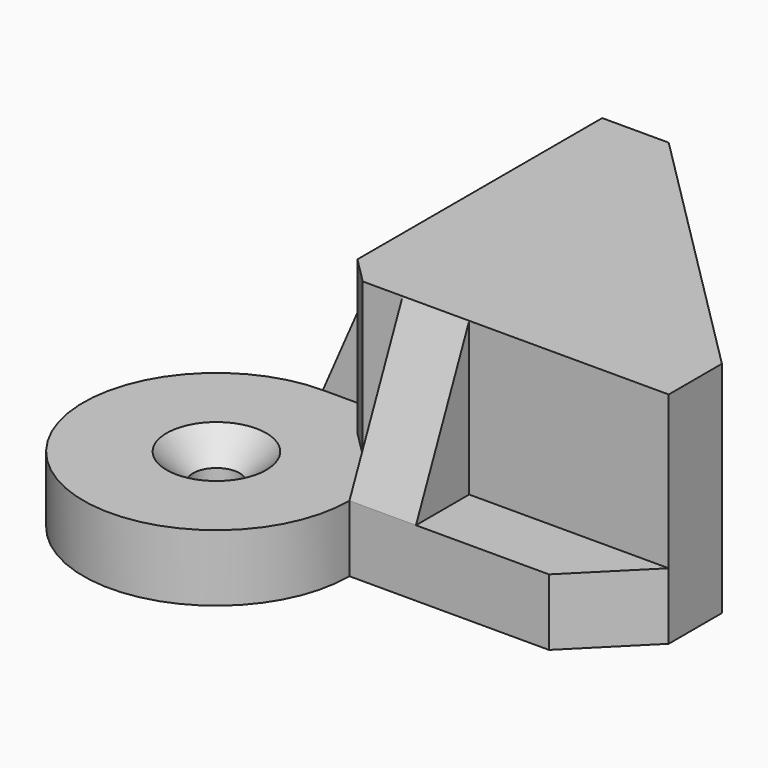
from build123d import *

# Parameters (mm, degrees)
EXTRUDE003_DEPTH                          = 5
EXTRUDE003_ONTO_SKETCH003_ROLL_ANGLE      = 90
EXTRUDE003_ONTO_SKETCH003_PLACEMENT_ANGLE = -90
EXTRUDE001_DEPTH                          = 9
EXTRUDE002_DEPTH                          = 2.5
SKETCH_R                                  = 1.75
EXTRUDE_DEPTH                             = 5
CHAMFER_SIZE                              = 2


with BuildPart() as extrude003:
    # Sketch003 as drawn → Extrude003 (new)
    with BuildSketch(Plane.XY):
        Polygon((-5, 16.5), (-5, 5), (0, 5), align=None)
    extrude(amount=-EXTRUDE003_DEPTH)


with BuildPart() as extrude003_1:
    # Extrude003 onto Sketch003 roll: moved
    add(extrude003.part.rotate(Axis((0, 0, 0), (1, 0, 0)), EXTRUDE003_ONTO_SKETCH003_ROLL_ANGLE))


with BuildPart() as extrude003_2:
    # Extrude003 onto Sketch003 placement: moved
    add(extrude003_1.part.moved(Location((5, 0, 0))).rotate(Axis((5, 0, 0), (0, 0, 1)), EXTRUDE003_ONTO_SKETCH003_PLACEMENT_ANGLE))


with BuildPart() as extrude003_3:
    # Extrude003 placement: moved
    add(extrude003_2.part.moved(Location((5, 0, 0))))


with BuildPart() as extrude003_mirrored:
    # mirror: instance of Extrude003
    add(extrude003_3.part.mirror(Plane(origin=(5, 5, 2), x_dir=(0.707107, 0.707107, 0), z_dir=(-0.707107, 0.707107, 0))))


with BuildPart() as extrude001:
    # Sketch001 (on Face12 of Extrude) → Extrude001 (new body)
    with BuildSketch(Plane.XY.offset(5)):
        Polygon((5, 30), (10, 30), (10, 10), (30, 10), (30, 5), (5, 5), align=None)
    extrude(amount=EXTRUDE001_DEPTH)


with BuildPart() as extrude002:
    # Sketch002 (on Face8 of Extrude001) → Extrude002 (new body)
    with BuildSketch(Plane.XY.offset(14)):
        Polygon((5, 30), (10, 30), (30, 10), (30, 5), (5, 5), align=None)
    extrude(amount=EXTRUDE002_DEPTH)


with BuildPart() as chamfer_body:
    # Sketch → Extrude (new body)
    with BuildSketch(Plane.XY):
        with BuildLine():
            Line((5, 30), (10, 30))
            Line((10, 10), (10, 30))
            Line((30, 10), (10, 10))
            Line((30, 10), (30, 5))
            Line((30, 5), (25, 0))
            Line((25, 0), (10, 0))
            ThreePointArc((0, 10), (-7.071068, -7.071068), (10, 0))
            Line((0, 10), (0, 25))
            Line((5, 30), (0, 25))
        make_face()
        Circle(SKETCH_R, mode=Mode.SUBTRACT)
    extrude(amount=EXTRUDE_DEPTH)

    # Fusion: union Extrude001, Extrude002
    add(extrude001.part)
    add(extrude002.part)

    # Fusion001: union Extrude003, Extrude003 (mirrored)
    add(extrude003_3.part)
    add(extrude003_mirrored.part)

    # Chamfer
    chamfer_edges = [chamfer_body.edges().sort_by_distance(p)[0] for p in [
        (5, 5, 10.75),
        (-1.75, 0, 5),
    ]]
    chamfer(chamfer_edges, length=CHAMFER_SIZE)


solid = chamfer_body.part
